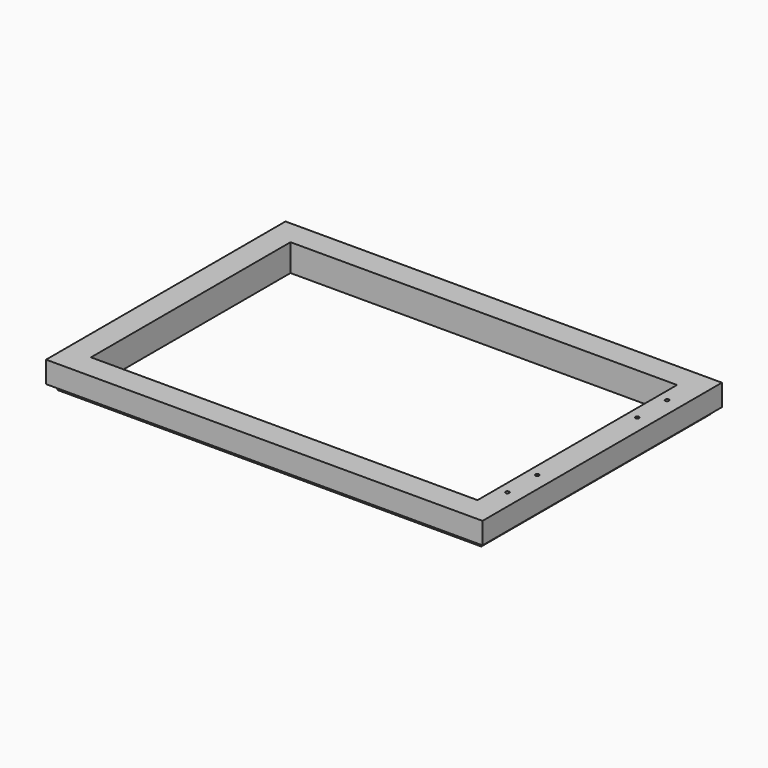
from build123d import *

# Parameters (mm, degrees)
F0_W     = 444.5
F0_H     = 304.8
F1_DEPTH = 21.971
F2_W     = 431.8
F2_H     = 292.1
F3_DEPTH = 5.715
F5_W     = 393.7
F5_H     = 254
F6_DEPTH = 27.687
F9_D     = 3.7973


with BuildPart() as f1:
    # F0 (on Top) → F1 (new body)
    with BuildSketch(Plane.XY):
        with Locations((222.25, 152.4)):
            Rectangle(F0_W, F0_H)
    extrude(amount=F1_DEPTH)

    # F2 (on face) → F3 (join)
    with BuildSketch(Plane(origin=(0, 0, 0), x_dir=(1, 0, 0), z_dir=(0, 0, -1))):
        with Locations((222.25, -152.4)):
            Rectangle(F2_W, F2_H)
    extrude(amount=F3_DEPTH)

    # F5 (on face) → F6 (cut, through all)
    with BuildSketch(Plane.XY.offset(21.971)):
        with Locations((222.25, 152.4)):
            Rectangle(F5_W, F5_H)
    extrude(amount=-F6_DEPTH, mode=Mode.SUBTRACT)

    # F9 (through all)
    with Locations(Plane.XY.offset(21.971)):
        with Locations((429.26, 254), (429.26, 215.9), (429.26, 88.9), (429.26, 50.8)):
            Hole(F9_D / 2)


solid = f1.part
